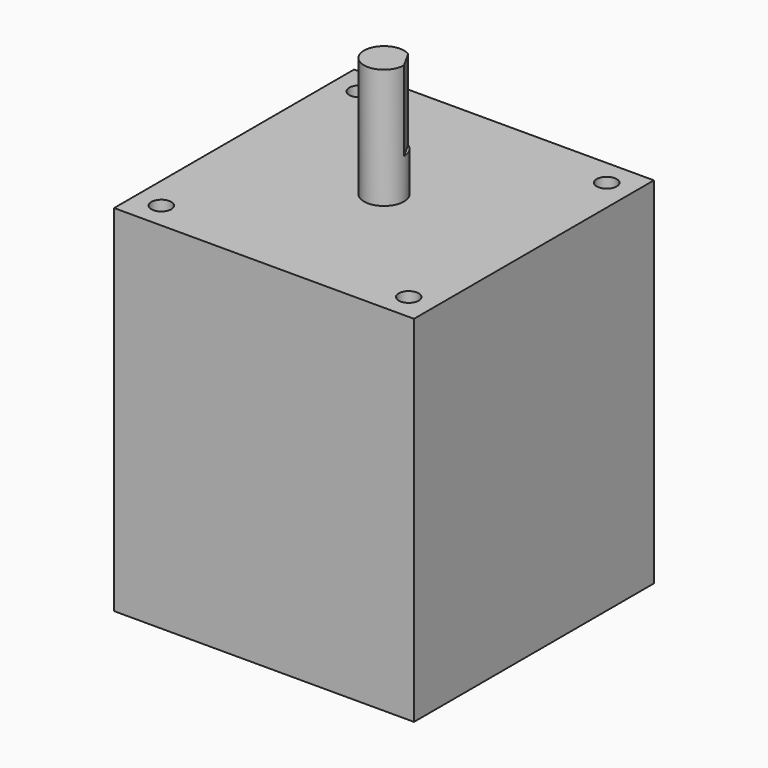
from build123d import *

# Parameters (mm, degrees)
F0_W     = 60
F0_H     = 60
F1_DEPTH = 71
F2_R     = 2
F3_DEPTH = 10
F4_R     = 4
F5_DEPTH = 24
F7_DEPTH = 16


with BuildPart() as f1:
    # F0 (on Top) → F1 (new body)
    with BuildSketch(Plane.XY):
        Rectangle(F0_W, F0_H)
    extrude(amount=F1_DEPTH)

    # F2 (on face) → F3 (cut)
    with BuildSketch(Plane.XY.offset(71)):
        with Locations((-24.75, -24.75)):
            Circle(F2_R)
        with Locations((24.75, -24.75)):
            Circle(F2_R)
        with Locations((-24.75, 24.75)):
            Circle(F2_R)
        with Locations((24.75, 24.75)):
            Circle(F2_R)
    extrude(amount=-F3_DEPTH, mode=Mode.SUBTRACT)

    # F4 (on face) → F5 (join)
    with BuildSketch(Plane.XY.offset(71)):
        Circle(F4_R)
    extrude(amount=F5_DEPTH)

    # F6 (on face) → F7 (cut)
    with BuildSketch(Plane.XY.offset(95)):
        with BuildLine():
            Line((2.125, 3.3888604279), (4, 0))
            ThreePointArc((4, 0), (3.5, 1.9364916731), (2.125, 3.3888604279))
        make_face()
    extrude(amount=-F7_DEPTH, mode=Mode.SUBTRACT)


solid = f1.part
